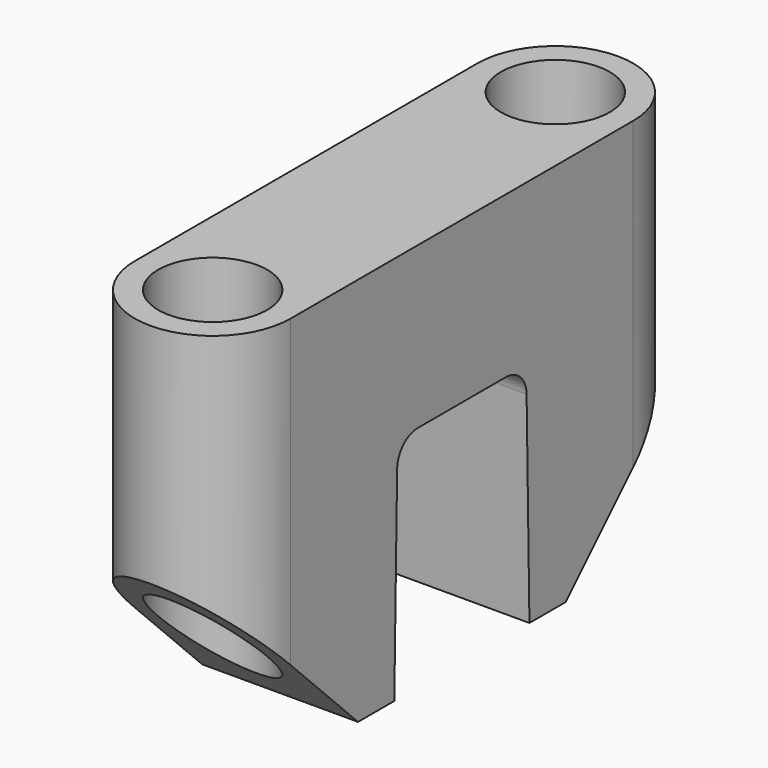
from build123d import *

# Parameters (mm, degrees)
SKETCH215_R             = 2.1
PAD110_DEPTH            = 15
POCKET079_DEPTH         = 42.3742142452
POCKET079_DEPTH_BACK    = 42.3742142452
POCKET115_DEPTH         = 3.001
POCKET115_DEPTH_BACK    = 3.001
BODY091_ROLL_ANGLE      = -180
BODY091_PLACEMENT_ANGLE = 90


with BuildPart() as part:
    # Sketch215 → Pad110 (new body)
    with BuildSketch(Plane.XY):
        with BuildLine():
            ThreePointArc((-8.25, 3), (-11.25, 0), (-8.25, -3))
            Line((0, -3), (-8.25, -3))
            Line((0, 3), (0, -3))
            Line((0, 3), (-8.25, 3))
        make_face()
        with Locations((-8.25, 0)):
            Circle(SKETCH215_R, mode=Mode.SUBTRACT)
    extrude(amount=PAD110_DEPTH)

    # Sketch216 → Pocket079 (cut, two sides)
    with BuildSketch(Plane.XZ) as pocket079_sk:
        with BuildLine():
            Line((-3.2536045714, 15), (-3.117150432, 7.1825475936))
            ThreePointArc((-3.117150432, 7.1825475936), (-2.8182120012, 6.4867495508), (-2.1173027369, 6.2))
            Line((0, 6.2), (-2.1173027369, 6.2))
            Line((0, 6.2), (0, 15))
            Line((-3.2536045714, 15), (0, 15))
        make_face()
    extrude(amount=-POCKET079_DEPTH, mode=Mode.SUBTRACT)
    extrude(pocket079_sk.sketch, amount=POCKET079_DEPTH_BACK, mode=Mode.SUBTRACT)

    # Sketch268 → Pocket115 (cut, two sides)
    with BuildSketch(Plane.XZ) as pocket115_sk:
        Polygon((-12, 8), (-5, 15), (-12, 15), align=None)
    extrude(amount=-POCKET115_DEPTH, mode=Mode.SUBTRACT)
    extrude(pocket115_sk.sketch, amount=POCKET115_DEPTH_BACK, mode=Mode.SUBTRACT)

    # Mirrored046: part across Sketch216 V_Axis


with BuildPart() as part_1:
    add(part.part)
    add(part.part.mirror(Plane(origin=(0, 0, 0), x_dir=(0, -1, 0), z_dir=(1, 0, 0))))


with BuildPart() as part_2:
    # Body091 roll: moved
    add(part_1.part.rotate(Axis((0, 0, 0), (1, 0, 0)), BODY091_ROLL_ANGLE))


with BuildPart() as part_3:
    # Body091 placement: moved
    add(part_2.part.moved(Location((71.5, 19.83, 20))).rotate(Axis((71.5, 19.83, 20), (0, 0, 1)), BODY091_PLACEMENT_ANGLE))


solid = part_3.part
